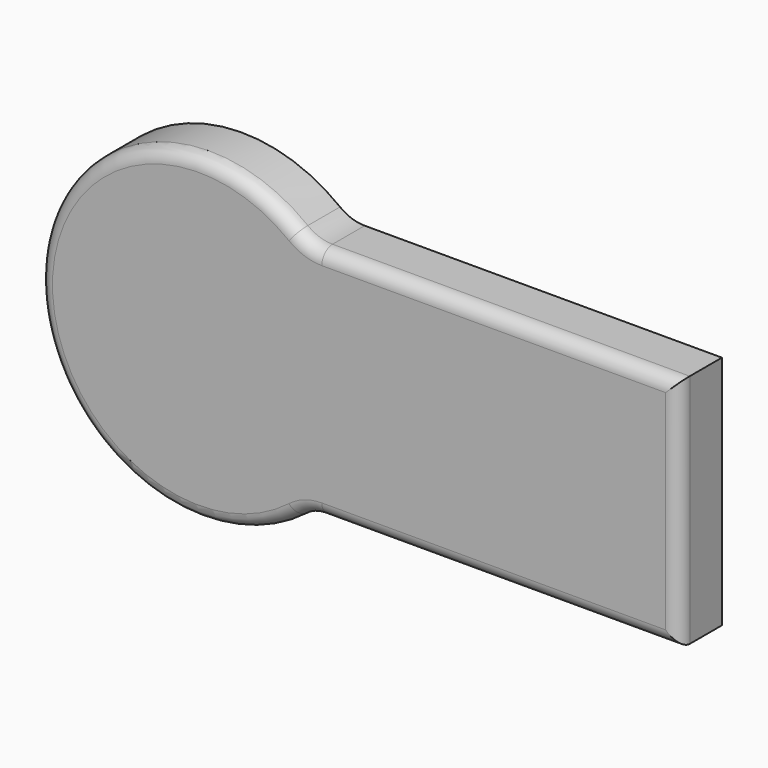
from build123d import *

# Parameters (mm, degrees)
F0_W     = 179.208383
F0_H     = 87.981586
F1_DEPTH = 25
F2_R     = 59.70905
F3_DEPTH = 25
F4_R     = 15
F5_R     = 5
F6_SIZE  = 5


with BuildPart() as f1:
    # F0 (on Front) → F1 (new body)
    with BuildSketch(Plane.XZ):
        with Locations((-14.650919, 7.236587)):
            Rectangle(F0_W, F0_H)
    extrude(amount=F1_DEPTH)

    # F2 (on face) → F3 (join, through all)
    with BuildSketch(Plane.XZ.offset(25)):
        with Locations((-104.25511, 7.236587)):
            Circle(F2_R)
    extrude(amount=-F3_DEPTH)

    # F4
    f4_edges = [f1.edges().sort_by_distance(p)[0] for p in [
        (-63.882089, -12.5, 51.22738),
        (-63.882089, -12.5, -36.754206),
    ]]
    fillet(f4_edges, radius=F4_R)

    # F5
    f5_edges = [f1.edges().sort_by_distance(p)[0] for p in [
        (8.270297, -25, 51.22738),
        (-63.277779, -25, 52.038271),
        (74.953273, -25, 7.236587),
        (-163.96416, -25, 7.236587),
        (8.270297, -25, -36.754206),
        (-63.277779, -25, -37.565098),
    ]]
    fillet(f5_edges, radius=F5_R)

    # F6
    f6_edges = [f1.edges().sort_by_distance(p)[0] for p in [
        (8.270297, 0, 51.22738),
        (-63.277779, 0, 52.038271),
        (74.953273, 0, 7.236587),
        (-163.96416, 0, 7.236587),
        (8.270297, 0, -36.754206),
        (-63.277779, 0, -37.565098),
    ]]
    chamfer(f6_edges, length=F6_SIZE)


solid = f1.part
